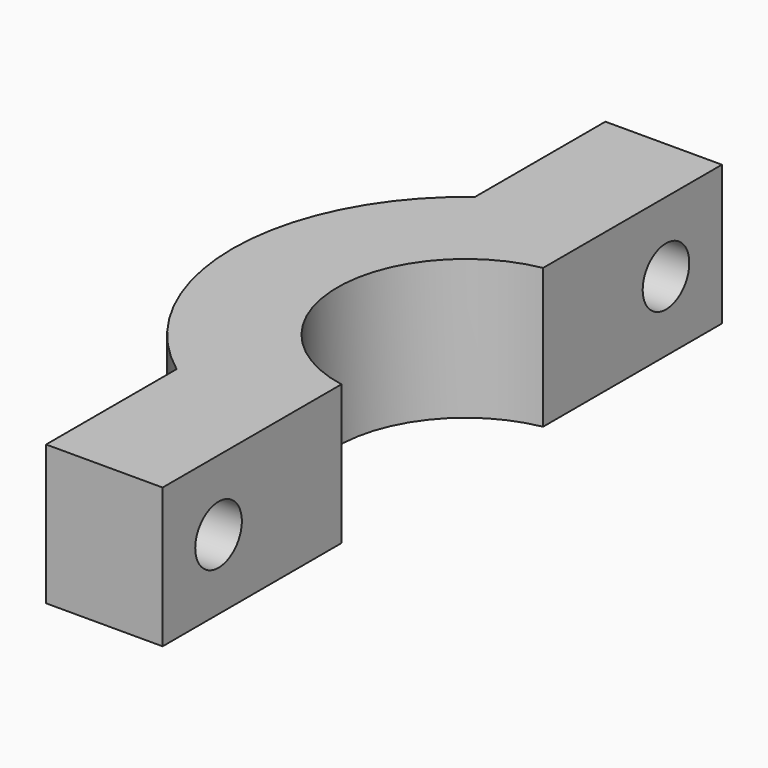
from build123d import *

# Parameters (mm, degrees)
F1_DEPTH = 7.62
F2_R     = 1.5875
F3_R     = 1.5875
F4_DEPTH = 25.4
F2_R_2   = 2.921
F3_R_2   = 2.921
F5_DEPTH = 2.794
F6_ANGLE = -90


with BuildPart() as f1:
    # F0 (on Top) → F1 (new body)
    with BuildSketch(Plane.XY):
        with BuildLine():
            Line((11.43, 1.27), (12.6363404513, 1.27))
            ThreePointArc((12.6363404513, 1.27), (12.2207385876, 3.4559439194), (11.43, 5.5358016583))
            Line((11.43, 5.5358016583), (11.43, 1.27))
        make_face()
        with BuildLine():
            ThreePointArc((11.43, 5.5358016583), (12.2207385876, 3.4559439194), (12.6363404513, 1.27))
            Line((12.6363404513, 1.27), (19.05, 1.27))
            Line((19.05, 1.27), (19.05, 7.62))
            Line((19.05, 7.62), (11.43, 7.62))
            Line((11.43, 7.62), (11.43, 5.5358016583))
        make_face()
        with BuildLine():
            Line((11.43, 1.27), (11.43, 5.5358016583))
            ThreePointArc((11.43, 5.5358016583), (10.8451830635, 6.6084797282), (10.16, 7.62))
            Line((10.16, 7.62), (-10.16, 7.62))
            ThreePointArc((-10.16, 7.62), (-10.8451830635, 6.6084797282), (-11.43, 5.5358016583))
            Line((-11.43, 5.5358016583), (-11.43, 1.27))
            Line((-11.43, 1.27), (-6.8685751798, 1.27))
            ThreePointArc((-6.8685751798, 1.27), (0, 6.985), (6.8685751798, 1.27))
            Line((6.8685751798, 1.27), (11.43, 1.27))
        make_face()
        with BuildLine():
            ThreePointArc((10.16, 7.62), (10.8451830635, 6.6084797282), (11.43, 5.5358016583))
            Line((11.43, 5.5358016583), (11.43, 7.62))
            Line((11.43, 7.62), (10.16, 7.62))
        make_face()
        with BuildLine():
            Line((-10.16, 7.62), (10.16, 7.62))
            ThreePointArc((10.16, 7.62), (0, 12.7), (-10.16, 7.62))
        make_face()
        with BuildLine():
            ThreePointArc((-11.43, 5.5358016583), (-10.8451830635, 6.6084797282), (-10.16, 7.62))
            Line((-10.16, 7.62), (-11.43, 7.62))
            Line((-11.43, 7.62), (-11.43, 5.5358016583))
        make_face()
        with BuildLine():
            Line((-11.43, 1.27), (-11.43, 5.5358016583))
            ThreePointArc((-11.43, 5.5358016583), (-12.2207385876, 3.4559439194), (-12.6363404513, 1.27))
            Line((-12.6363404513, 1.27), (-11.43, 1.27))
        make_face()
        with BuildLine():
            ThreePointArc((-12.6363404513, 1.27), (-12.2207385876, 3.4559439194), (-11.43, 5.5358016583))
            Line((-11.43, 5.5358016583), (-11.43, 7.62))
            Line((-11.43, 7.62), (-19.05, 7.62))
            Line((-19.05, 7.62), (-19.05, 1.27))
            Line((-19.05, 1.27), (-12.6363404513, 1.27))
        make_face()
    extrude(amount=F1_DEPTH)

    # F2 (on face) + F3 (on face) → F4 (cut)
    with BuildSketch(Plane(origin=(0, 7.62, 0), x_dir=(-1, 0, 0), z_dir=(0, 1, 0))):
        with Locations((-15.24, 3.81)):
            Circle(F2_R)
    with BuildSketch(Plane(origin=(0, 7.62, 0), x_dir=(-1, 0, 0), z_dir=(0, 1, 0))):
        with Locations((15.24, 3.81)):
            Circle(F3_R)
    extrude(amount=-F4_DEPTH, mode=Mode.SUBTRACT)

    # F2 (on face) + F3 (on face) → F5 (cut)
    with BuildSketch(Plane(origin=(0, 7.62, 0), x_dir=(-1, 0, 0), z_dir=(0, 1, 0))):
        with Locations((-15.24, 3.81)):
            Circle(F2_R_2)
        with Locations((-15.24, 3.81)):
            Circle(F2_R, mode=Mode.SUBTRACT)
    with BuildSketch(Plane(origin=(0, 7.62, 0), x_dir=(-1, 0, 0), z_dir=(0, 1, 0))):
        with Locations((15.24, 3.81)):
            Circle(F3_R_2)
        with Locations((15.24, 3.81)):
            Circle(F3_R, mode=Mode.SUBTRACT)
    extrude(amount=-F5_DEPTH, mode=Mode.SUBTRACT)


with BuildPart() as f1_1:
    # F6: moved
    add(f1.part.rotate(Axis((19.05, 7.62, 3.81), (0, 0, -1)), F6_ANGLE))


solid = f1_1.part
